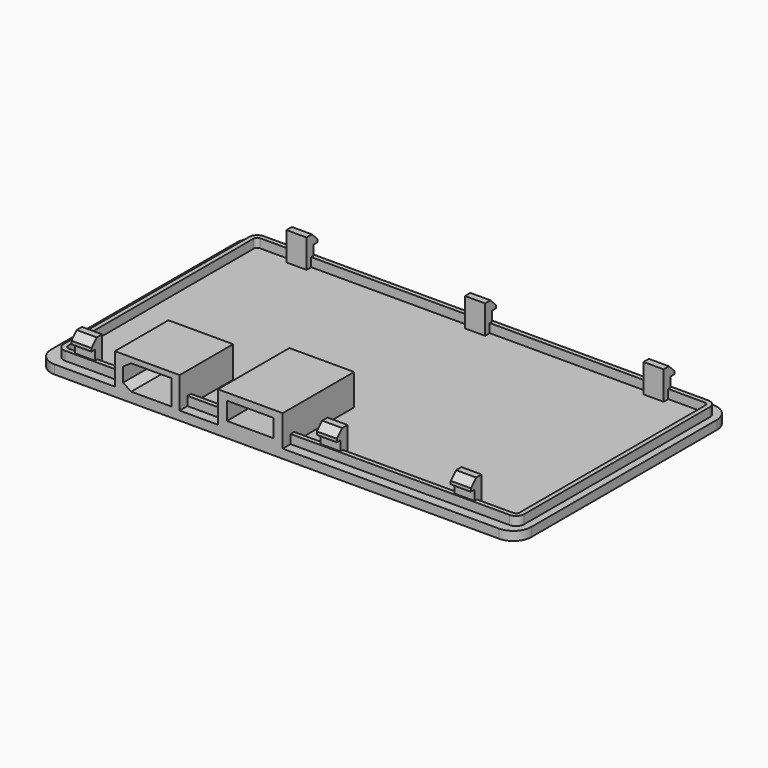
from build123d import *

# Parameters (mm, degrees)
BOX096_W         = 10.8
BOX096_H         = 15
BOX096_DEPTH     = 5.6
CHAMFER007_SIZE2 = 1.8
CHAMFER007_SIZE  = 1.2
BOX097_W         = 8
BOX097_H         = 10
BOX097_DEPTH     = 4
BOX098_W         = 10.4
BOX098_H         = 18.5
BOX098_DEPTH     = 4
BOX099_W         = 9
BOX099_H         = 18
BOX099_DEPTH     = 3
BOX094_W         = 14.5
BOX094_H         = 15
BOX094_DEPTH     = 7
BOX095_W         = 14.5
BOX095_H         = 20
BOX095_DEPTH     = 7
BOX089_W         = 4.5
BOX089_H         = 2
BOX089_DEPTH     = 6
BOX090_W         = 4.5
BOX090_H         = 2
BOX090_DEPTH     = 6
BOX091_W         = 4.5
BOX091_H         = 2
BOX091_DEPTH     = 6
BOX086_W         = 4.5
BOX086_H         = 2
BOX086_DEPTH     = 6
BOX087_W         = 4.5
BOX087_H         = 2
BOX087_DEPTH     = 6
BOX088_W         = 4.5
BOX088_H         = 2
BOX088_DEPTH     = 6
BOX083_W         = 4.5
BOX083_H         = 3
BOX083_DEPTH     = 2.2
BOX084_W         = 4.5
BOX084_H         = 3
BOX084_DEPTH     = 2.2
BOX085_W         = 4.5
BOX085_H         = 3
BOX085_DEPTH     = 2.2
BOX080_W         = 4.5
BOX080_H         = 3
BOX080_DEPTH     = 2.2
BOX081_W         = 4.5
BOX081_H         = 3
BOX081_DEPTH     = 2.2
BOX082_W         = 4.5
BOX082_H         = 3
BOX082_DEPTH     = 2.2
CHAMFER006_SIZE  = 1.5
BOX079_W         = 107.6
BOX079_H         = 60
BOX079_DEPTH     = 2
FILLET015_R      = 4
BOX093_W         = 101.2
BOX093_H         = 53.6
BOX093_DEPTH     = 2
BOX092_W         = 103.2
BOX092_H         = 55.6
BOX092_DEPTH     = 2
FILLET016_1_R    = 1.8
FILLET016_2_R    = 0.8


with BuildPart() as chamfer007:
    # Box096 → Box096 (new body)
    with BuildSketch(Plane(origin=(19, 0, 0), x_dir=(1, 0, 0), z_dir=(0, 0, 1))):
        with Locations((5.4, 7.5)):
            Rectangle(BOX096_W, BOX096_H)
    extrude(amount=BOX096_DEPTH)

    # Chamfer007
    chamfer007_edges = [chamfer007.edges().sort_by_distance(p)[0] for p in [
        (19, 7.5, 5.6),
        (19, 7.5, 0),
    ]]
    chamfer007_side = chamfer007.faces().sort_by_distance((19, 7.5, 2.8))[0]
    chamfer(chamfer007_edges, length=CHAMFER007_SIZE, length2=CHAMFER007_SIZE2, reference=chamfer007_side)


with BuildPart() as chamfer007_1:
    # Chamfer007 placement: moved
    add(chamfer007.part.moved(Location((44.1, 33.4, -1.8))))


with BuildPart() as fusion058:
    # Box097 → Box097 (new body)
    with BuildSketch(Plane(origin=(65, 42, -1), x_dir=(1, 0, 0), z_dir=(0, 0, 1))):
        with Locations((4, 5)):
            Rectangle(BOX097_W, BOX097_H)
    extrude(amount=BOX097_DEPTH)

    # Fusion058: union Chamfer007
    add(chamfer007_1.part)


with BuildPart() as fusion058_1:
    # Fusion058 placement: moved
    add(fusion058.part.moved(Location((-0.05, 0, 0))))


with BuildPart() as cubo098:
    # Box098 → Box098 (new body)
    with BuildSketch(Plane.XY.offset(-0.1)):
        with Locations((5.2, 9.25)):
            Rectangle(BOX098_W, BOX098_H)
    extrude(amount=BOX098_DEPTH)


with BuildPart() as fusion061:
    # Box099 → Box099 (new body)
    with BuildSketch(Plane(origin=(0.7, 8, 0.4), x_dir=(1, 0, 0), z_dir=(0, 0, 1))):
        with Locations((4.5, 9)):
            Rectangle(BOX099_W, BOX099_H)
    extrude(amount=BOX099_DEPTH)

    # Fusion060: union Cubo098
    add(cubo098.part)


with BuildPart() as fusion061_1:
    # Fusion060 placement: moved
    add(fusion061.part.moved(Location((86.3, 34.3, -0.5))))

    # Fusion061: union Fusion058
    add(fusion058_1.part)


with BuildPart() as cubo094:
    # Box094 → Box094 (new body)
    with BuildSketch(Plane(origin=(61.2, 34.3, -2), x_dir=(1, 0, 0), z_dir=(0, 0, 1))):
        with Locations((7.25, 7.5)):
            Rectangle(BOX094_W, BOX094_H)
    extrude(amount=BOX094_DEPTH)


with BuildPart() as cubo095:
    # Box095 → Box095 (new body)
    with BuildSketch(Plane(origin=(84.3, 34.3, -2), x_dir=(1, 0, 0), z_dir=(0, 0, 1))):
        with Locations((7.25, 10)):
            Rectangle(BOX095_W, BOX095_H)
    extrude(amount=BOX095_DEPTH)


with BuildPart() as cubo089:
    # Box089 → Box089 (new body)
    with BuildSketch(Plane(origin=(0, -2, -5), x_dir=(1, 0, 0), z_dir=(0, 0, 1))):
        with Locations((2.25, 1)):
            Rectangle(BOX089_W, BOX089_H)
    extrude(amount=BOX089_DEPTH)


with BuildPart() as cubo090:
    # Box090 → Box090 (new body)
    with BuildSketch(Plane(origin=(40, -2, -5), x_dir=(1, 0, 0), z_dir=(0, 0, 1))):
        with Locations((2.25, 1)):
            Rectangle(BOX090_W, BOX090_H)
    extrude(amount=BOX090_DEPTH)


with BuildPart() as fusion054:
    # Box091 → Box091 (new body)
    with BuildSketch(Plane(origin=(80, -2, -5), x_dir=(1, 0, 0), z_dir=(0, 0, 1))):
        with Locations((2.25, 1)):
            Rectangle(BOX091_W, BOX091_H)
    extrude(amount=BOX091_DEPTH)

    # Fusion054: union Cubo089, Cubo090
    add(cubo089.part)
    add(cubo090.part)


with BuildPart() as fusion054_1:
    # Fusion054 placement: moved
    add(fusion054.part.moved(Location((55, 91.8, 2))))


with BuildPart() as cubo086:
    # Box086 → Box086 (new body)
    with BuildSketch(Plane(origin=(-5, 1, -5), x_dir=(1, 0, 0), z_dir=(0, 0, 1))):
        with Locations((2.25, 1)):
            Rectangle(BOX086_W, BOX086_H)
    extrude(amount=BOX086_DEPTH)


with BuildPart() as cubo087:
    # Box087 → Box087 (new body)
    with BuildSketch(Plane(origin=(50, 1, -5), x_dir=(1, 0, 0), z_dir=(0, 0, 1))):
        with Locations((2.25, 1)):
            Rectangle(BOX087_W, BOX087_H)
    extrude(amount=BOX087_DEPTH)


with BuildPart() as fusion055:
    # Box088 → Box088 (new body)
    with BuildSketch(Plane(origin=(80, 1, -5), x_dir=(1, 0, 0), z_dir=(0, 0, 1))):
        with Locations((2.25, 1)):
            Rectangle(BOX088_W, BOX088_H)
    extrude(amount=BOX088_DEPTH)

    # Fusion053: union Cubo086, Cubo087
    add(cubo086.part)
    add(cubo087.part)


with BuildPart() as fusion055_1:
    # Fusion053 placement: moved
    add(fusion055.part.moved(Location((55, 35.8, 2))))

    # Fusion055: union Fusion054
    add(fusion054_1.part)


with BuildPart() as cubo083:
    # Box083 → Box083 (new body)
    with BuildSketch(Plane(origin=(0, -2, 0.2), x_dir=(1, 0, 0), z_dir=(0, 0, 1))):
        with Locations((2.25, 1.5)):
            Rectangle(BOX083_W, BOX083_H)
    extrude(amount=BOX083_DEPTH)


with BuildPart() as cubo084:
    # Box084 → Box084 (new body)
    with BuildSketch(Plane(origin=(40, -2, 0.2), x_dir=(1, 0, 0), z_dir=(0, 0, 1))):
        with Locations((2.25, 1.5)):
            Rectangle(BOX084_W, BOX084_H)
    extrude(amount=BOX084_DEPTH)


with BuildPart() as fusion051:
    # Box085 → Box085 (new body)
    with BuildSketch(Plane(origin=(80, -2, 0.2), x_dir=(1, 0, 0), z_dir=(0, 0, 1))):
        with Locations((2.25, 1.5)):
            Rectangle(BOX085_W, BOX085_H)
    extrude(amount=BOX085_DEPTH)

    # Fusion051: union Cubo083, Cubo084
    add(cubo083.part)
    add(cubo084.part)


with BuildPart() as fusion051_1:
    # Fusion051 placement: moved
    add(fusion051.part.moved(Location((55, 91.8, 2))))


with BuildPart() as cubo080:
    # Box080 → Box080 (new body)
    with BuildSketch(Plane(origin=(-5, 0, 0.2), x_dir=(1, 0, 0), z_dir=(0, 0, 1))):
        with Locations((2.25, 1.5)):
            Rectangle(BOX080_W, BOX080_H)
    extrude(amount=BOX080_DEPTH)


with BuildPart() as cubo081:
    # Box081 → Box081 (new body)
    with BuildSketch(Plane(origin=(50, 0, 0.2), x_dir=(1, 0, 0), z_dir=(0, 0, 1))):
        with Locations((2.25, 1.5)):
            Rectangle(BOX081_W, BOX081_H)
    extrude(amount=BOX081_DEPTH)


with BuildPart() as chamfer006:
    # Box082 → Box082 (new body)
    with BuildSketch(Plane(origin=(80, 0, 0.2), x_dir=(1, 0, 0), z_dir=(0, 0, 1))):
        with Locations((2.25, 1.5)):
            Rectangle(BOX082_W, BOX082_H)
    extrude(amount=BOX082_DEPTH)

    # Fusion050: union Cubo080, Cubo081
    add(cubo080.part)
    add(cubo081.part)


with BuildPart() as chamfer006_1:
    # Fusion050 placement: moved
    add(chamfer006.part.moved(Location((55, 35.8, 2))))

    # Fusion052: union Fusion051
    add(fusion051_1.part)

    # Fusion056: union Fusion055
    add(fusion055_1.part)

    # Chamfer006
    chamfer006_edges = [chamfer006_1.edges().sort_by_distance(p)[0] for p in [
        (137.25, 35.8, 4.4),
        (52.25, 35.8, 4.4),
        (107.25, 35.8, 4.4),
        (137.25, 92.8, 4.4),
        (57.25, 92.8, 4.4),
        (97.25, 92.8, 4.4),
    ]]
    chamfer(chamfer006_edges, length=CHAMFER006_SIZE)


with BuildPart() as chamfer006_2:
    # Chamfer006 placement: moved
    add(chamfer006_1.part.moved(Location((0.25, 0, 0))))


with BuildPart() as fillet015:
    # Box079 → Box079 (new body)
    with BuildSketch(Plane(origin=(43.7, 34.3, -4), x_dir=(1, 0, 0), z_dir=(0, 0, 1))):
        with Locations((53.8, 30)):
            Rectangle(BOX079_W, BOX079_H)
    extrude(amount=BOX079_DEPTH)

    # Fillet015
    fillet015_edges = [fillet015.edges().sort_by_distance(p)[0] for p in [
        (43.7, 34.3, -3),
        (43.7, 94.3, -3),
        (151.3, 34.3, -3),
        (151.3, 94.3, -3),
    ]]
    fillet(fillet015_edges, radius=FILLET015_R)


with BuildPart() as cubo093:
    # Box093 → Box093 (new body)
    with BuildSketch(Plane(origin=(49.7, 35.3, -2), x_dir=(1, 0, 0), z_dir=(0, 0, 1))):
        with Locations((50.6, 26.8)):
            Rectangle(BOX093_W, BOX093_H)
    extrude(amount=BOX093_DEPTH)


with BuildPart() as base:
    # Box092 → Box092 (new body)
    with BuildSketch(Plane(origin=(48.7, 34.3, -2), x_dir=(1, 0, 0), z_dir=(0, 0, 1))):
        with Locations((51.6, 27.8)):
            Rectangle(BOX092_W, BOX092_H)
    extrude(amount=BOX092_DEPTH)

    # Cut019: cut Cubo093
    add(cubo093.part, mode=Mode.SUBTRACT)

    # Fillet016 1
    fillet016_1_edges = [base.edges().sort_by_distance(p)[0] for p in [
        (48.7, 34.3, -1),
        (48.7, 89.9, -1),
        (151.9, 34.3, -1),
        (151.9, 89.9, -1),
    ]]
    fillet(fillet016_1_edges, radius=FILLET016_1_R)

    # Fillet016 2
    fillet016_2_edges = [base.edges().sort_by_distance(p)[0] for p in [
        (150.9, 35.3, -1),
        (49.7, 35.3, -1),
        (150.9, 88.9, -1),
        (49.7, 88.9, -1),
    ]]
    fillet(fillet016_2_edges, radius=FILLET016_2_R)


with BuildPart() as base_1:
    # Fillet016 placement: moved
    add(base.part.moved(Location((-2.2, 2.2, 0))))

    # Fusion057: union Chamfer006, Fillet015
    add(chamfer006_2.part)
    add(fillet015.part)

    # Fusion059: union Cubo094, Cubo095
    add(cubo094.part)
    add(cubo095.part)

    # Cut020: cut Fusion061
    add(fusion061_1.part, mode=Mode.SUBTRACT)


with BuildPart() as base_2:
    # Cut020 placement: moved
    add(base_1.part.moved(Location((0, 0, -5))))


solid = base_2.part
